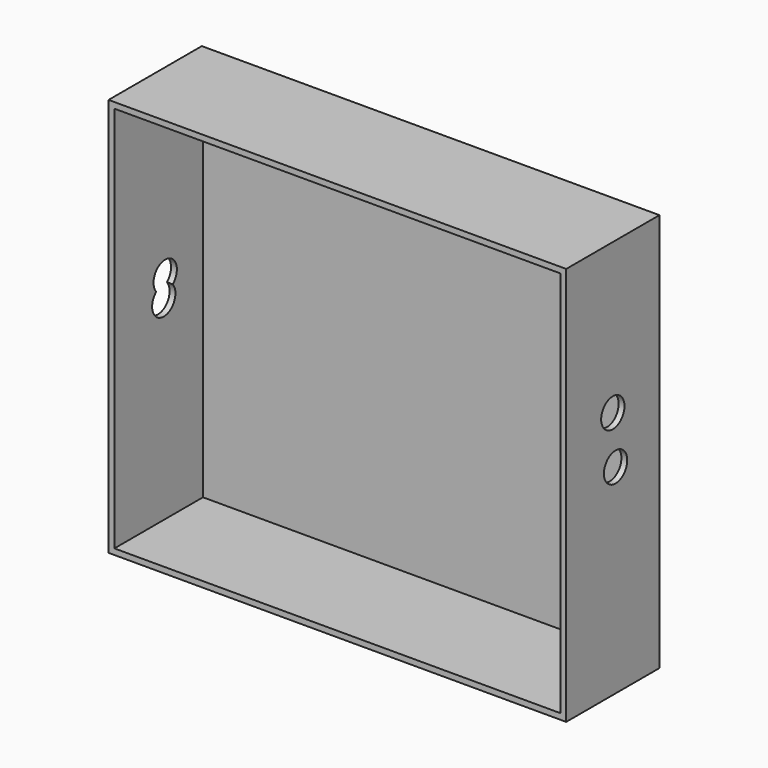
from build123d import *

# Parameters (mm, degrees)
F0_W     = 99.75113
F0_H     = 86.922713
F1_DEPTH = 25.4
F2_T     = -1.27
F4_D     = 6.35
F6_D     = 6.35
F6_DEPTH = 12.7
F8_D     = 6.35
F8_DEPTH = 12.7


with BuildPart() as f1:
    # F0 (on Front) → F1 (new body)
    with BuildSketch(Plane.XZ):
        with Locations((49.875565, 43.461357)):
            Rectangle(F0_W, F0_H)
    extrude(amount=F1_DEPTH)

    # F2
    f2_openings = [f1.faces().sort_by_distance(p)[0] for p in [
        (49.875565, -25.4, 43.461356),
    ]]
    offset(amount=F2_T, openings=f2_openings)

    # F4 (through all)
    with Locations(Plane.YZ.offset(99.75113)):
        with Locations((-11.947631, 43.461356)):
            Hole(F4_D / 2)

    # F6
    with Locations(Plane.YZ.offset(1.27)):
        with Locations((-11.557093, 47.894768)):
            Hole(F6_D / 2, depth=F6_DEPTH)

    # F8
    with Locations(Plane.YZ.offset(99.75113)):
        with Locations((-12.7, 54.16663)):
            Hole(F8_D / 2, depth=F8_DEPTH)


solid = f1.part
